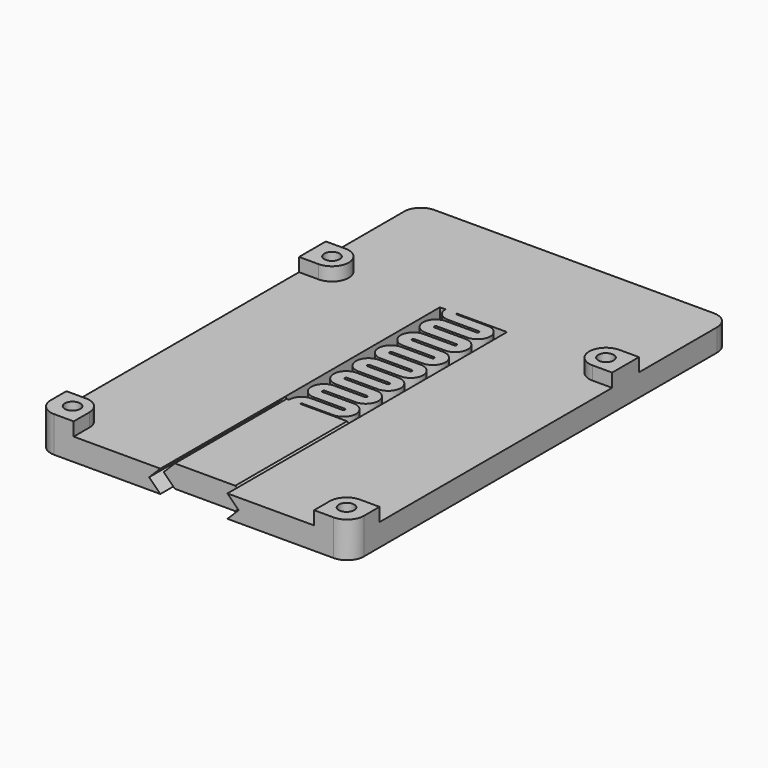
from build123d import *

# Parameters (mm, degrees)
PAD_DEPTH           = 4
PAD001_DEPTH        = 2.4
POCKET002_DEPTH     = 4
SKETCH006_R         = 1.375
POCKET003_DEPTH     = 206.380999
POCKET001_DEPTH     = 28.1
SKETCH007_W         = 12
SKETCH007_H         = 35
POCKET_DEPTH        = 6.401
PAD002_DEPTH        = 4
LINEARPATTERN_COUNT = 7
LINEARPATTERN_PITCH = 5
PAD003_DEPTH        = 25
PAD004_DEPTH        = 10
PAD005_DEPTH        = 10


with BuildPart() as part:
    # Sketch → Pad (new body)
    with BuildSketch(Plane.XY):
        with BuildLine():
            ThreePointArc((-25, 42.5), (-27.12132, 41.62132), (-28, 39.5))
            Line((-28, -39.5), (-28, 39.5))
            ThreePointArc((-28, -39.5), (-27.12132, -41.62132), (-25, -42.5))
            Line((25, -42.5), (-25, -42.5))
            ThreePointArc((25, -42.5), (27.12132, -41.62132), (28, -39.5))
            Line((28, 39.5), (28, -39.5))
            ThreePointArc((28, 39.5), (27.12132, 41.62132), (25, 42.5))
            Line((-25, 42.5), (25, 42.5))
        make_face()
    extrude(amount=PAD_DEPTH)

    # Sketch001 → Pad001 (join)
    with BuildSketch(Plane.XY.offset(4)):
        with BuildLine():
            ThreePointArc((-28, -39.5), (-27.12132, -41.62132), (-25, -42.5))
            Line((-25, -42.5), (-21.5, -42.5))
            Line((-21.5, -42.5), (-21.5, -39))
            ThreePointArc((-21.5, -39), (-22.37868, -36.87868), (-24.5, -36))
            Line((-28, -36), (-24.5, -36))
            Line((-28, -39.5), (-28, -36))
        make_face()
        with BuildLine():
            ThreePointArc((-24.5, 16), (-21.5, 19), (-24.5, 22))
            Line((-24.5, 22), (-28, 22))
            Line((-28, 16), (-28, 22))
            Line((-24.5, 16), (-28, 16))
        make_face()
    pad001 = extrude(amount=PAD001_DEPTH)

    # Sketch005 → Pocket002 (cut)
    with BuildSketch(Plane.XY):
        Polygon((-21.901924, -40.5), (-21.901924, -37.5), (-24.5, -36), (-27.098076, -37.5), (-27.098076, -40.5), (-24.5, -42), align=None)
        Polygon((-21.901924, 17.5), (-21.901924, 20.5), (-24.5, 22), (-27.098076, 20.5), (-27.098076, 17.5), (-24.5, 16), align=None)
    pocket002 = extrude(amount=POCKET002_DEPTH, mode=Mode.SUBTRACT)

    # Sketch006 → Pocket003 (cut, through all)
    with BuildSketch(Plane.XY.offset(4)):
        with Locations((-24.5, 19)):
            Circle(SKETCH006_R)
        with Locations((-24.5, -39)):
            Circle(SKETCH006_R)
    pocket003 = extrude(amount=POCKET003_DEPTH, mode=Mode.SUBTRACT)

    # Sketch003 → Pocket001 (cut)
    with BuildSketch(Plane.XZ.offset(42.5)):
        Polygon((-6, 0), (-8, 2), (-6, 4), (6, 4), (8, 2), (6, 0), align=None)
    extrude(amount=-POCKET001_DEPTH, mode=Mode.SUBTRACT)

    # Sketch007 → Pocket (cut, through all)
    with BuildSketch(Plane.XY):
        with Locations((0, 2.5)):
            Rectangle(SKETCH007_W, SKETCH007_H)
    extrude(amount=POCKET_DEPTH, mode=Mode.SUBTRACT)

    # Sketch009 → Pad002 (join)
    with BuildSketch(Plane.XY):
        with BuildLine():
            Line((-5, 20), (-3, 20))
            ThreePointArc((-3, 20), (-2.926777, 19.823223), (-2.75, 19.75))
            Line((-2.75, 19.75), (2.75, 19.75))
            ThreePointArc((2.75, 15.25), (5, 17.5), (2.75, 19.75))
            Line((2.75, 15.25), (-2.75, 15.25))
            ThreePointArc((-2.75, 15.25), (-2.926777, 15.176777), (-3, 15))
            Line((-5, 15), (-3, 15))
            ThreePointArc((-2.75, 17.25), (-4.34099, 16.59099), (-5, 15))
            Line((2.75, 17.25), (-2.75, 17.25))
            ThreePointArc((2.75, 17.25), (3, 17.5), (2.75, 17.75))
            Line((-2.75, 17.75), (2.75, 17.75))
            ThreePointArc((-5, 20), (-4.34099, 18.40901), (-2.75, 17.75))
        make_face()
    pad002 = extrude(amount=PAD002_DEPTH)

    # LinearPattern: Pad002 ×7
    with Locations(*[(0, -i * LINEARPATTERN_PITCH, 0) for i in range(1, LINEARPATTERN_COUNT)]):
        add(pad002)

    # Sketch008 → Pad003 (join)
    with BuildSketch(Plane.XZ.offset(15)):
        Polygon((-5.4, 0), (5.4, 0), (7.4, 2), (5.4, 4), (-5.4, 4), (-7.4, 2), align=None)
    extrude(amount=PAD003_DEPTH)

    # Sketch010 → Pad004 (join)
    with BuildSketch(Plane.YZ.offset(5)):
        Polygon((-19, 0), (-15, 0), (-15, -1), (-13, -2), (-15, -3), (-16, -3), align=None)
    extrude(amount=-PAD004_DEPTH)

    # Sketch011 → Pad005 (join)
    with BuildSketch(Plane.YZ.offset(10)):
        Polygon((-20, 0), (-20, -1), (-18, -2), (-20, -3), (-21, -3), (-24, 0), align=None)
        Polygon((17.5, 0), (17.5, -1), (15.5, -2), (17.5, -3), (18.5, -3), (21.5, 0), align=None)
    pad005 = extrude(amount=PAD005_DEPTH)

    # Mirrored: Pad001, Pocket002, Pocket003, Pad005 across Sketch001 V_Axis
    add(pad001.mirror(Plane(origin=(0, 0, 4), x_dir=(0, 0, 1), z_dir=(1, 0, 0))))
    add(pocket002.mirror(Plane(origin=(0, 0, 4), x_dir=(0, 0, 1), z_dir=(1, 0, 0))), mode=Mode.SUBTRACT)
    add(pocket003.mirror(Plane(origin=(0, 0, 4), x_dir=(0, 0, 1), z_dir=(1, 0, 0))), mode=Mode.SUBTRACT)
    add(pad005.mirror(Plane(origin=(0, 0, 4), x_dir=(0, 0, 1), z_dir=(1, 0, 0))))


solid = part.part
